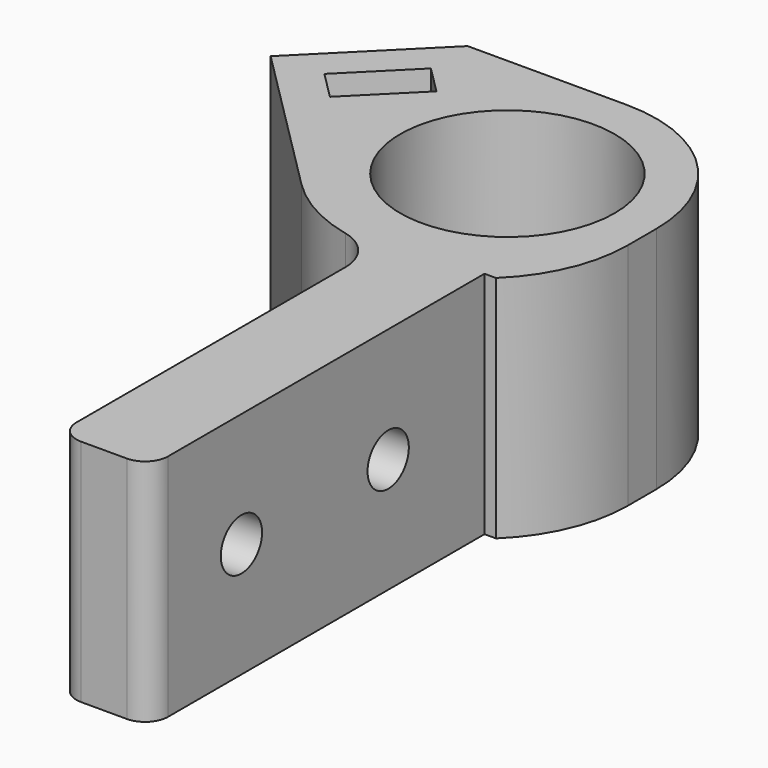
from build123d import *

# Parameters (mm, degrees)
SKETCH086_R     = 9.35
PAD031_DEPTH    = 20
SKETCH085_R     = 2.25
HOLE033_DEPTH   = 13.001
POCKET034_DEPTH = 3.5
SKETCH087_R     = 2.25
HOLE034_DEPTH   = 8
HOLE034_TIPS_R  = 2.25
POCKET097_DEPTH = 3.4


with BuildPart() as part:
    # Sketch086 → Pad031 (new body)
    with BuildSketch(Plane.XY):
        with BuildLine():
            Line((123.5, 100.5), (123.5, 66))
            ThreePointArc((121.5, 64), (122.914214, 64.585786), (123.5, 66))
            Line((117.5, 64), (121.5, 64))
            ThreePointArc((115.5, 66), (116.085786, 64.585786), (117.5, 64))
            Line((115.5, 95.331912), (115.5, 66))
            ThreePointArc((115.5, 95.331912), (114.625135, 97.828616), (112.383235, 99.233181))
            ThreePointArc((105.51903, 103.01903), (108.683048, 100.640036), (112.383235, 99.233181))
            Line((92.084001, 116.454058), (105.51903, 103.01903))
            Line((101.629942, 126), (92.084001, 116.454058))
            Line((115.5, 126), (101.629942, 126))
            ThreePointArc((128.5, 113), (124.692388, 122.192388), (115.5, 126))
            Line((128.5, 113), (128.5, 109.880832))
            ThreePointArc((124.5, 100.5), (127.458261, 104.781812), (128.5, 109.880832))
            Line((123.5, 100.5), (124.5, 100.5))
        make_face()
        with Locations((115.5, 113)):
            Circle(SKETCH086_R, mode=Mode.SUBTRACT)
    extrude(amount=PAD031_DEPTH)

    # Sketch085 (on DatumPlane) → Hole033 (cut, through all)
    with BuildSketch(Plane.ZY.offset(-115.5)):
        with Locations((10, 90)):
            Circle(SKETCH085_R)
        with Locations((10, 74)):
            Circle(SKETCH085_R)
    extrude(amount=-HOLE033_DEPTH, mode=Mode.SUBTRACT)

    # Sketch084 (on DatumPlane) → Pocket034 (cut)
    with BuildSketch(Plane.ZY.offset(-115.5)):
        Polygon((13.65, 87.892672), (13.65, 92.107328), (10, 94.214657), (6.35, 92.107328), (6.35, 87.892672), (10, 85.785343), align=None)
        Polygon((13.65, 76.107328), (10, 78.214657), (6.35, 76.107328), (6.35, 71.892672), (10, 69.785343), (13.65, 71.892672), align=None)
    extrude(amount=-POCKET034_DEPTH, mode=Mode.SUBTRACT)

    # Sketch087 (on DatumPlane) → Hole034 (cut)
    with BuildSketch(Plane(origin=(-12.185029, 12.185029, 0), x_dir=(-0.707107, -0.707107, 0), z_dir=(-0.707107, 0.707107, 0))):
        with Locations((-154.458676, 5)):
            Circle(SKETCH087_R)
        with Locations((-154.458676, 15)):
            Circle(SKETCH087_R)
    extrude(amount=-HOLE034_DEPTH, mode=Mode.SUBTRACT)

    # Hole034 tips → Hole034 tip 1 section 0
    with BuildSketch(Plane(origin=(-6.528175, 6.528175, 0), x_dir=(-0.707107, -0.707107, 0), z_dir=(-0.707107, 0.707107, 0)), mode=Mode.PRIVATE) as hole034_tip_1_s0:
        with Locations((-154.458676, 5)):
            Circle(HOLE034_TIPS_R)
    loft([hole034_tip_1_s0.sketch, Vertex(103.646566, 114.790988, 5)], mode=Mode.SUBTRACT)

    # Hole034 tips → Hole034 tip 2 section 0
    with BuildSketch(Plane(origin=(-6.528175, 6.528175, 0), x_dir=(-0.707107, -0.707107, 0), z_dir=(-0.707107, 0.707107, 0)), mode=Mode.PRIVATE) as hole034_tip_2_s0:
        with Locations((-154.458676, 15)):
            Circle(HOLE034_TIPS_R)
    loft([hole034_tip_2_s0.sketch, Vertex(103.646566, 114.790988, 15)], mode=Mode.SUBTRACT)

    # Sketch113 (on DatumPlane) → Pocket097 (cut)
    with BuildSketch(Plane(origin=(-10.063708, 10.063708, 0), x_dir=(-0.707107, -0.707107, 0), z_dir=(-0.707107, 0.707107, 0))):
        Polygon((-158.108676, 12.892672), (-154.458676, 10.785343), (-150.808676, 12.892672), (-150.808676, 21), (-158.108676, 21), align=None)
        Polygon((-150.808676, 7.107328), (-154.458676, 9.214657), (-158.108676, 7.107328), (-158.108676, -1), (-150.808676, -1), align=None)
    extrude(amount=-POCKET097_DEPTH, mode=Mode.SUBTRACT)


with BuildPart() as part_1:
    # Body022007 placement: moved
    add(part.part.moved(Location((-2.5, 0, 893))))


solid = part_1.part
